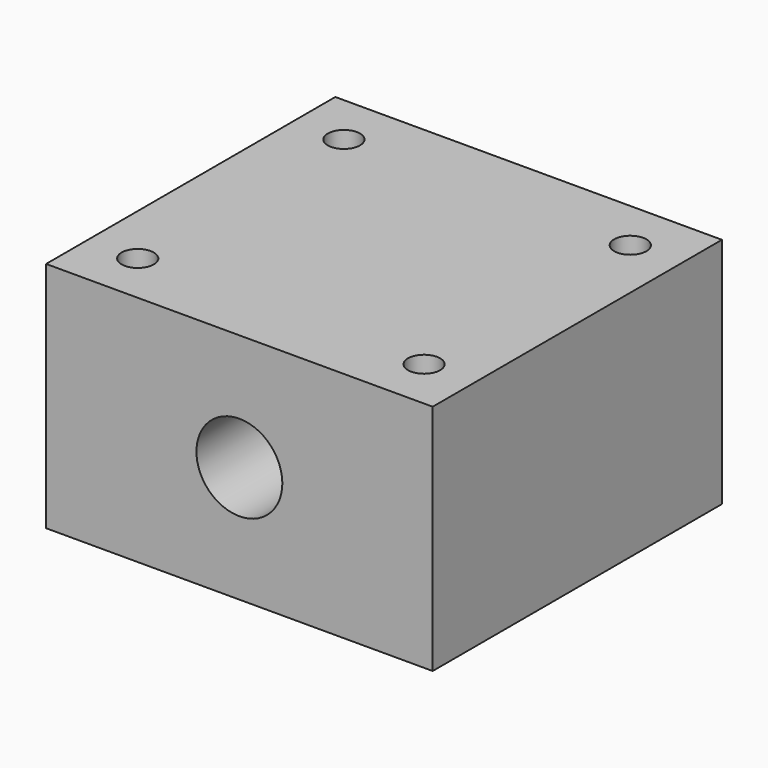
from build123d import *

# Parameters (mm, degrees)
SKETCH_W     = 54
SKETCH_H     = 50.5
SKETCH_R     = 2.25
PAD_DEPTH    = 16.25
SKETCH001_R  = 6
POCKET_DEPTH = 50.5


with BuildPart() as part:
    # Sketch → Pad (new body, symmetric)
    with BuildSketch(Plane.XY):
        Rectangle(SKETCH_W, SKETCH_H)
        with Locations((-20, 18)):
            Circle(SKETCH_R, mode=Mode.SUBTRACT)
        with Locations((-20, -18)):
            Circle(SKETCH_R, mode=Mode.SUBTRACT)
        with Locations((20, 18)):
            Circle(SKETCH_R, mode=Mode.SUBTRACT)
        with Locations((20, -18)):
            Circle(SKETCH_R, mode=Mode.SUBTRACT)
    extrude(amount=PAD_DEPTH, both=True)

    # Sketch001 → Pocket (cut)
    with BuildSketch(Plane.XZ.offset(25.25)):
        Circle(SKETCH001_R)
    extrude(amount=-POCKET_DEPTH, mode=Mode.SUBTRACT)


solid = part.part
